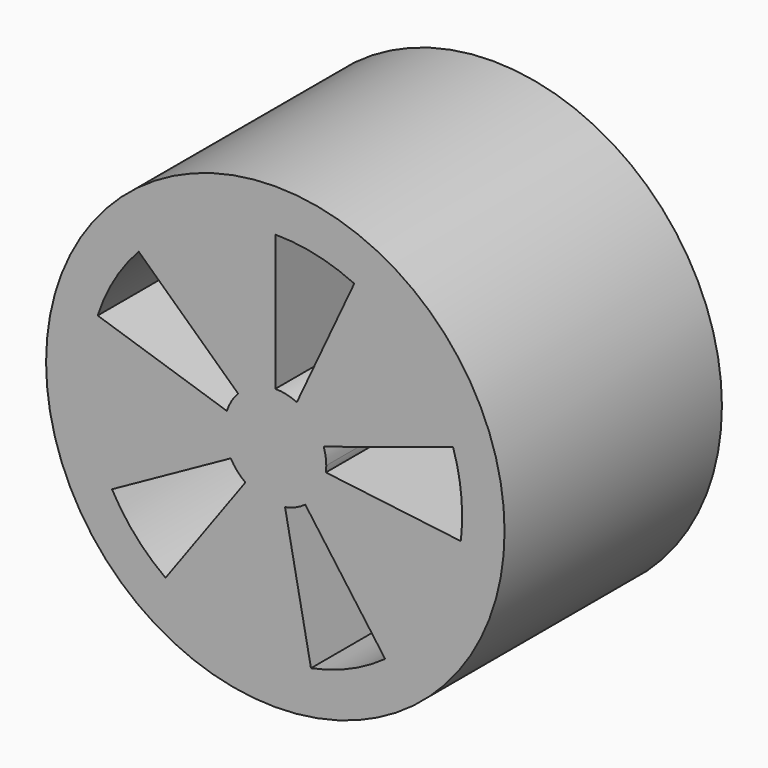
from build123d import *

# Parameters (mm, degrees)
F0_R     = 6.75
F1_DEPTH = 8
F3_DEPTH = 8.001


with BuildPart() as f1:
    # F0 (on Front) → F1 (new body)
    with BuildSketch(Plane.XZ):
        Circle(F0_R)
    extrude(amount=F1_DEPTH)

    # F2 (on face) → F3 (cut, through all)
    with BuildSketch(Plane.XZ.offset(8)):
        with BuildLine():
            ThreePointArc((-1.4265847744, 0.4635254916), (-1.2924437407, 0.7613075444), (-1.0970305524, 1.0229975401))
            Line((-1.0970305524, 1.0229975401), (-4.0224453589, 3.7509909803))
            ThreePointArc((-4.0224453589, 3.7509909803), (-4.7389603824, 2.7914609963), (-5.2308108396, 1.6995934691))
            Line((-5.2308108396, 1.6995934691), (-1.4265847744, 0.4635254916))
        make_face()
        with BuildLine():
            ThreePointArc((0, 1.5), (0.3246594209, 1.4644440107), (0.6339273926, 1.3594616806))
            Line((0.6339273926, 1.3594616806), (2.3244004396, 4.9846928287))
            ThreePointArc((2.3244004396, 4.9846928287), (1.1904178767, 5.3696280392), (0, 5.5))
            Line((0, 5.5), (0, 1.5))
        make_face()
        with BuildLine():
            ThreePointArc((1.4265847744, 0.4635254916), (1.4815325109, 0.2346516976), (1.5, 0))
            ThreePointArc((1.5, 0), (1.4972021976, -0.0915728093), (1.4888192275, -0.1828040151))
            Line((1.4888192275, -0.1828040151), (5.459003834, -0.6702813887))
            ThreePointArc((5.459003834, -0.6702813887), (5.4897413913, -0.3357669674), (5.5, 0))
            ThreePointArc((5.5, 0), (5.4322858733, 0.8603895577), (5.2308108396, 1.6995934691))
            Line((5.2308108396, 1.6995934691), (1.4265847744, 0.4635254916))
        make_face()
        with BuildLine():
            Line((3.2328188876, -4.4495934691), (0.8816778784, -1.2135254916))
            ThreePointArc((0.8816778784, -1.2135254916), (0.5981236034, -1.3755901116), (0.2862134931, -1.4724407752))
            Line((0.2862134931, -1.4724407752), (1.0494494746, -5.398949509))
            ThreePointArc((1.0494494746, -5.398949509), (2.1931198791, -5.0438304091), (3.2328188876, -4.4495934691))
        make_face()
        with BuildLine():
            Line((-3.2328188876, -4.4495934691), (-0.8816778784, -1.2135254916))
            ThreePointArc((-0.8816778784, -1.2135254916), (-1.1234335812, -0.9939300723), (-1.3119295607, -0.7272144304))
            Line((-1.3119295607, -0.7272144304), (-4.8104083893, -2.6664529114))
            ThreePointArc((-4.8104083893, -2.6664529114), (-4.1192564643, -3.6444102652), (-3.2328188876, -4.4495934691))
        make_face()
    extrude(amount=-F3_DEPTH, mode=Mode.SUBTRACT)


solid = f1.part
